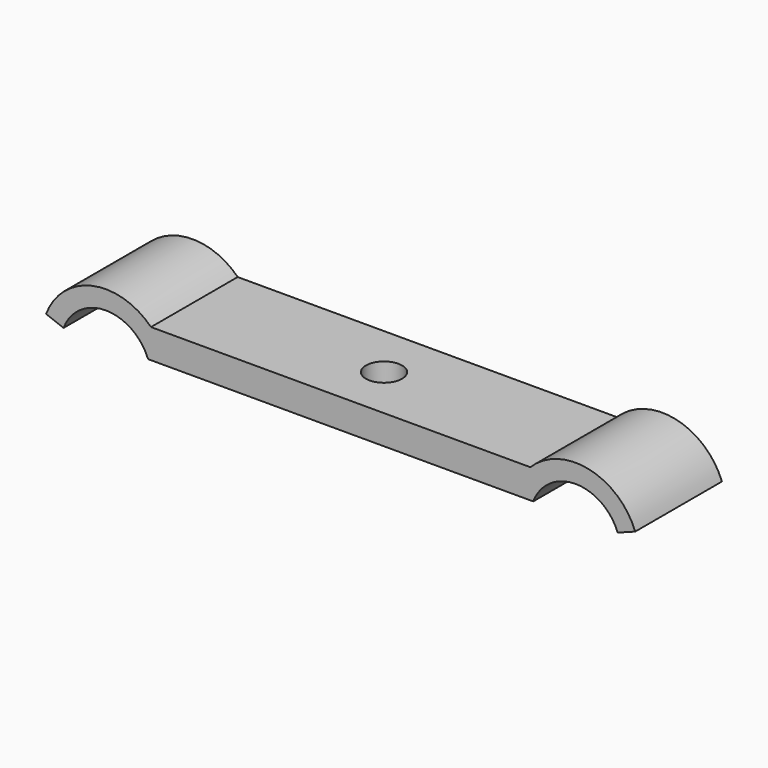
from build123d import *

# Parameters (mm, degrees)
F1_DEPTH = 76.2
F2_R     = 12.7
F3_DEPTH = 20.52468


with BuildPart() as f1:
    # F0 (on Front) → F1 (new body)
    with BuildSketch(Plane.XZ):
        with BuildLine():
            ThreePointArc((207.101302, 0), (174.548609, 28.020886), (133.35, 15.875))
            Line((133.35, 15.875), (-133.35, 15.875))
            ThreePointArc((-133.35, 15.875), (-174.548609, 28.020886), (-207.101302, 0))
            Line((-207.101302, 0), (-194.799406, -4.64968))
            ThreePointArc((-194.799406, -4.64968), (-165.1, 15.875), (-135.400594, -4.64968))
            Line((-135.400594, -4.64968), (135.400594, -4.64968))
            ThreePointArc((135.400594, -4.64968), (165.1, 15.875), (194.799406, -4.64968))
            Line((194.799406, -4.64968), (207.101302, 0))
        make_face()
    extrude(amount=F1_DEPTH)

    # F2 (on face) → F3 (cut, through all)
    with BuildSketch(Plane.XY.offset(15.875)):
        with Locations((0, -38.1)):
            Circle(F2_R)
    extrude(amount=-F3_DEPTH, mode=Mode.SUBTRACT)


solid = f1.part
